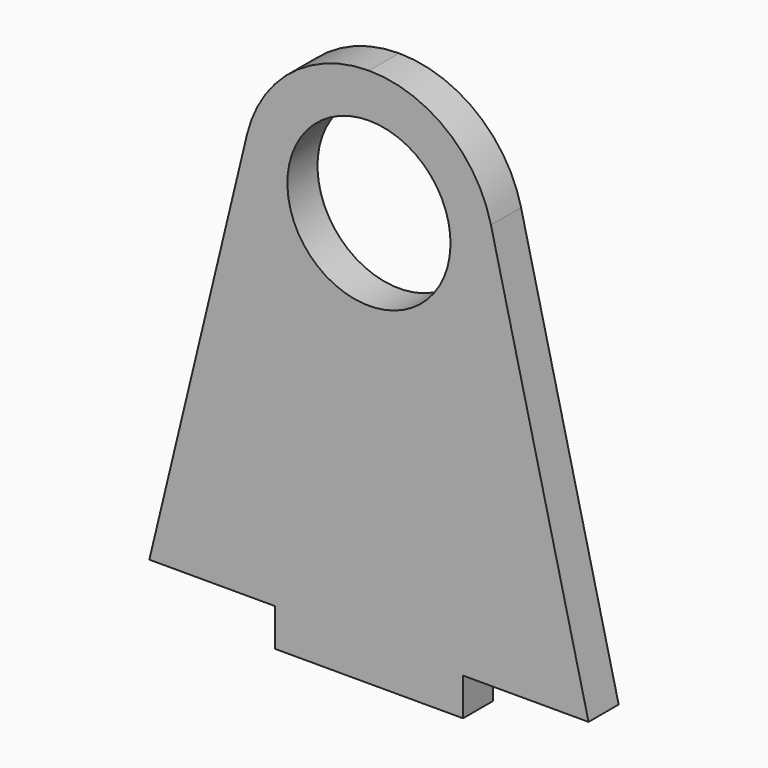
from build123d import *

# Parameters (mm, degrees)
F1_DEPTH = 3


with BuildPart() as f1:
    # F0 (on Front) → F1 (new body)
    with BuildSketch(Plane.XZ):
        with BuildLine():
            ThreePointArc((0, 40), (-6.189391, 37.85439), (-9.722778, 32.338287))
            Line((-9.722778, 32.338287), (-17.5, 0))
            Line((-17.5, 0), (-7.5, 0))
            Line((-7.5, 0), (-7.5, -3))
            Line((-7.5, -3), (0, -3))
            Line((0, -3), (7.5, -3))
            Line((7.5, -3), (7.5, 0))
            Line((7.5, 0), (17.5, 0))
            Line((17.5, 0), (9.722778, 32.338287))
            ThreePointArc((9.722778, 32.338287), (6.189391, 37.85439), (0, 40))
        make_face()
        with BuildLine():
            ThreePointArc((0, 23.5), (-6.5, 30), (0, 36.5))
            ThreePointArc((0, 36.5), (6.5, 30), (0, 23.5))
        make_face(mode=Mode.SUBTRACT)
    extrude(amount=F1_DEPTH)


solid = f1.part
